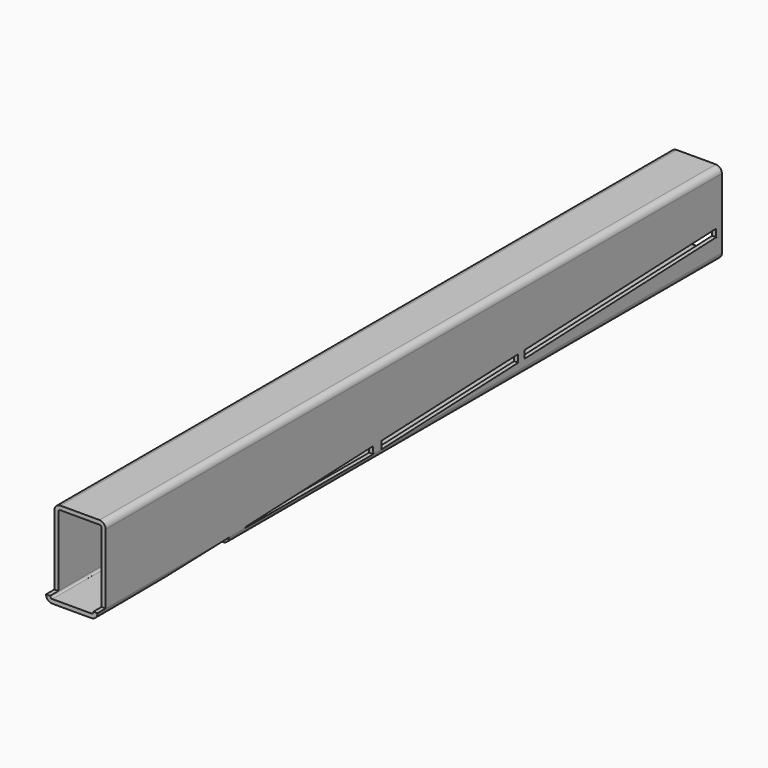
from build123d import *

# Parameters (mm, degrees)
F1_DEPTH      = 1520
F2_W          = 24.8266458511
F2_H          = 153.1557589769
F3_DEPTH      = 50.001
F3_DEPTH_BACK = 50.001


with BuildPart() as f1:
    # F0 (on Front) → F1 (new body)
    with BuildSketch(Plane.XZ):
        with BuildLine():
            Line((38, 80), (-38, 80))
            ThreePointArc((-38, 80), (-46.4852813742, 76.4852813742), (-50, 68))
            Line((-50, 68), (-50, -68))
            ThreePointArc((-50, -68), (-46.4852813742, -76.4852813742), (-38, -80))
            Line((-38, -80), (38, -80))
            ThreePointArc((38, -80), (46.4852813742, -76.4852813742), (50, -68))
            Line((50, -68), (50, 68))
            ThreePointArc((50, 68), (46.4852813742, 76.4852813742), (38, 80))
        make_face()
        with BuildLine():
            ThreePointArc((38, 72), (40.8284271247, 70.8284271247), (42, 68))
            Line((42, 68), (42, -68))
            ThreePointArc((42, -68), (40.8284271247, -70.8284271247), (38, -72))
            Line((38, -72), (-38, -72))
            ThreePointArc((-38, -72), (-40.8284271247, -70.8284271247), (-42, -68))
            Line((-42, -68), (-42, 68))
            ThreePointArc((-42, 68), (-40.8284271247, 70.8284271247), (-38, 72))
            Line((-38, 72), (38, 72))
        make_face(mode=Mode.SUBTRACT)
    extrude(amount=F1_DEPTH)

    # F2 (on Right) → F3 (cut, two sides)
    with BuildSketch(Plane.YZ) as f3_sk:
        Polygon((-829.1111716331, -53.1644468653), (-828.5183684688, -67.9845259717), (-495.7209135938, -54.6726277767), (-496.313716758, -39.8525486703), align=None)
        Polygon((-1160.0411917113, -67.9845259717), (-1159.9778765791, -67.9845259717), (-1160.0411917113, -66.4016476685), align=None)
        Polygon((-1160.0411917113, -66.4016476685), (-1159.9778765791, -67.9845259717), (-848.5343620739, -67.9845259717), (-849.0951908075, -53.9638076323), align=None)
        Polygon((-1200.0092300601, -68.0003692024), (-1500, -80), (-1199.5292448282, -80), align=None)
        Polygon((-14.3885822452, -20.5755432898), (-480.8296066956, -39.2331842678), (-480.2300861203, -54.2211986487), (-13.78906167, -35.5635576706), align=None)
        with Locations((-1512.4133229256, 8.8182687759)):
            Rectangle(F2_W, F2_H)
    extrude(amount=-F3_DEPTH, mode=Mode.SUBTRACT)
    extrude(f3_sk.sketch, amount=F3_DEPTH_BACK, mode=Mode.SUBTRACT)


solid = f1.part
